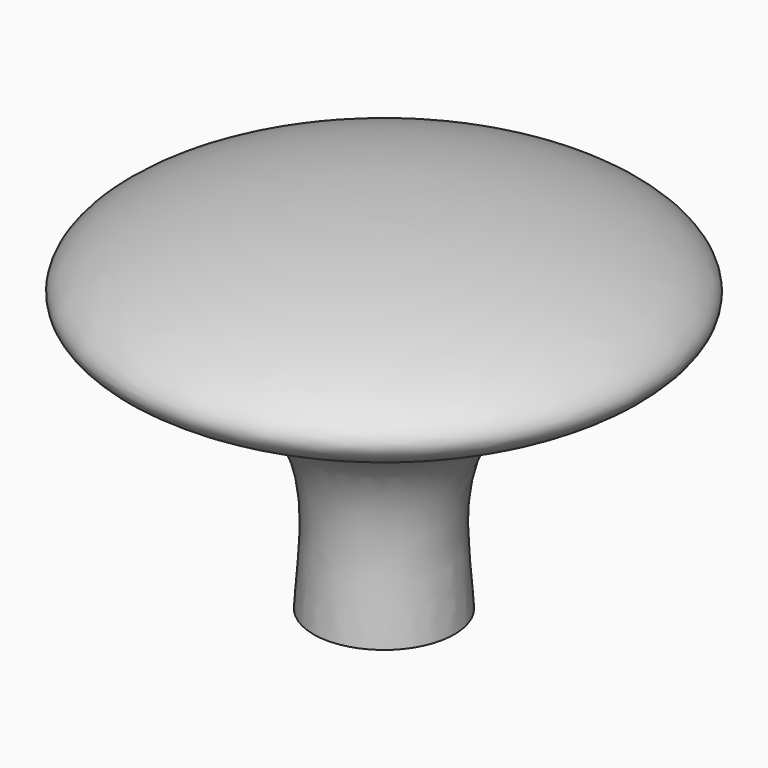
from build123d import *


with BuildPart() as f1:
    # F0 (on Front) → F1 (revolve)
    with BuildSketch(Plane.XZ):
        with BuildLine():
            Line((-10, 0), (0, 0))
            Line((0, 0), (0, 50))
            add(Edge.make_bspline(
                [(-10, 0), (-9.5659669389, 8.0318031996), (-5.5235459114, 28.7602046702), (-54.2596155755, 38.3870407964), (-21.1911661193, 50.3059234599), (0, 50)],
                knots=[0, 0, 0, 0, 0.3036489672, 0.6213909434, 1, 1, 1, 1], degree=3))
        make_face()
    revolve(axis=Axis((0, 0, 25), (0, 0, 1)))


solid = f1.part
